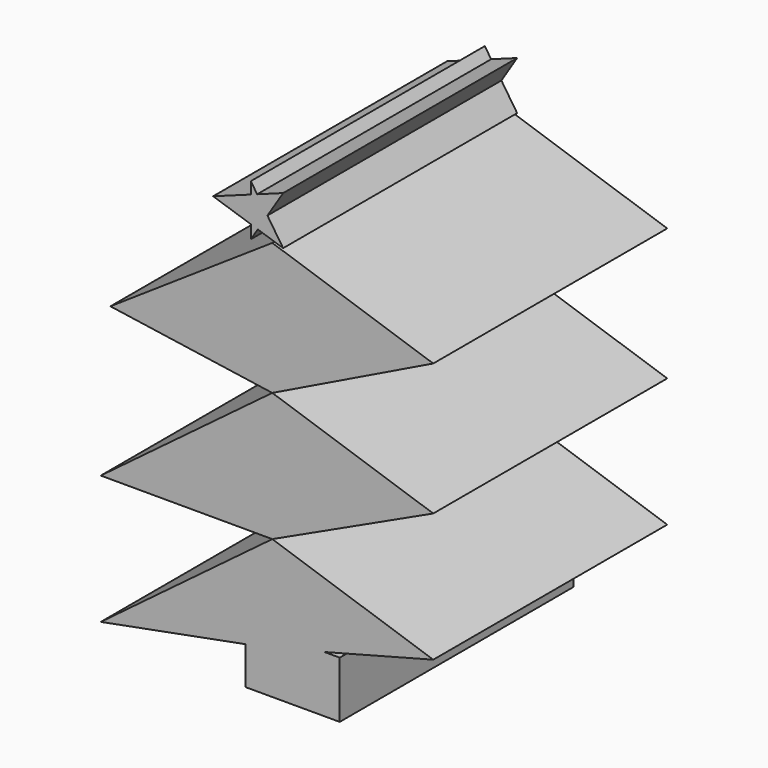
from build123d import *

# Parameters (mm, degrees)
F1_DEPTH = 25.4
F2_W     = 8.1881582737
F2_H     = 4.9128951505
F3_DEPTH = 25.4
F5_DEPTH = 25.4


with BuildPart() as f1:
    # F0 (on Front) → F1 (new body)
    with BuildSketch(Plane.XZ):
        Polygon((10.4613956064, 35.6595031917), (-3.5175860394, 40.3325371444), (-3.5175860394, 28.8647823036), align=None)
        Polygon((-3.5175860394, 28.8647823036), (-3.5175860394, 40.3325371444), (-17.5751429051, 30.913695693), align=None)
    extrude(amount=F1_DEPTH)


with BuildPart() as f1b:
    # F0 (on Front) → F1, piece 2 (new body)
    with BuildSketch(Plane.XZ):
        Polygon((10.4613956064, 13.0142364651), (-3.5175860394, 17.6872704178), (-3.5175860394, 9.335600771), align=None)
        Polygon((-3.5175860394, 9.335600771), (-3.5175860394, 17.6872704178), (-18.4120554477, 6.5137832426), align=None)
    extrude(amount=F1_DEPTH)

    # F2 (on Front) → F3 (join)
    with BuildSketch(Plane.XZ):
        with Locations((-1.754605677, 8.071184624)):
            Rectangle(F2_W, F2_H)
    extrude(amount=F3_DEPTH)


with BuildPart() as f1c:
    # F0 (on Front) → F1, piece 3 (new body)
    with BuildSketch(Plane.XZ):
        Polygon((10.4613956064, 24.1917483509), (-3.5175860394, 28.8647823036), (-3.5175860394, 17.6872704178), align=None)
        Polygon((-3.5175860394, 17.6872704178), (-3.5175860394, 28.8647823036), (-18.4120554477, 17.6999662071), align=None)
    extrude(amount=F1_DEPTH)


with BuildPart() as f5:
    # F4 (on Front) → F5 (new body)
    with BuildSketch(Plane.XZ):
        Polygon((-5.380790215, 41.1567419558), (-5.380790215, 40.0050021708), (-4.7778663743, 40.9596318685), align=None)
        Polygon((-8.6560528725, 42.2275029123), (-5.380790215, 41.1567419558), (-5.380790215, 43.4242339761), align=None)
        Polygon((-5.380790215, 43.4242339761), (-5.380790215, 41.1567419558), (-4.7778663743, 40.9596318685), (-3.9391690301, 42.2875697244), (-4.8308935512, 43.6251578372), align=None)
        Polygon((-3.9391690301, 42.2875697244), (-4.7778663743, 40.9596318685), (-2.5734216906, 40.2389466763), align=None)
        Polygon((-5.380790215, 44.4500036538), (-5.380790215, 43.4242339761), (-4.8308935512, 43.6251578372), align=None)
        Polygon((-4.8308935512, 43.6251578372), (-3.9391690301, 42.2875697244), (-2.5734216906, 44.4500036538), align=None)
    extrude(amount=F5_DEPTH)


solid = Compound([f1.part, f1b.part, f1c.part, f5.part])
